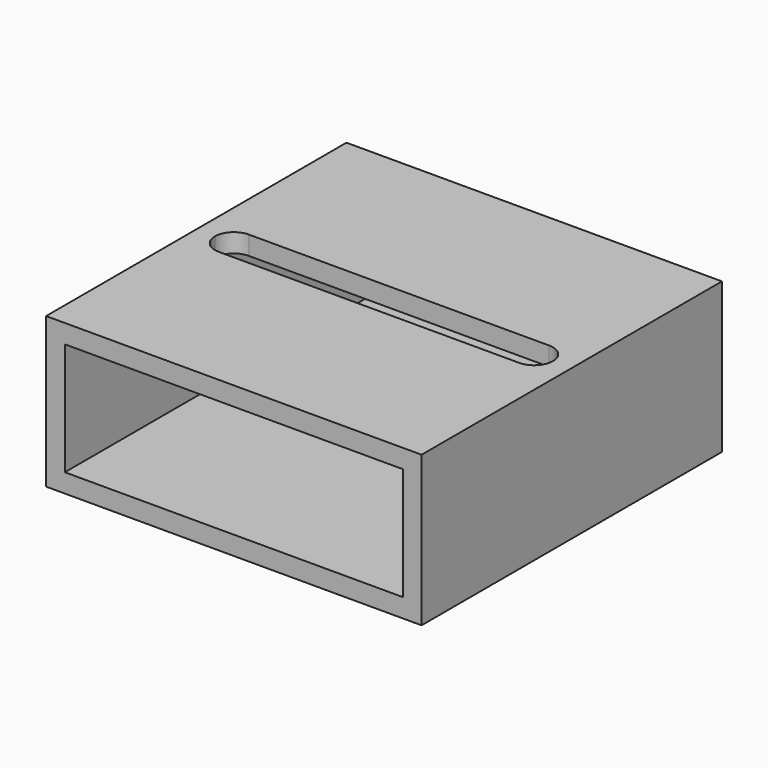
from build123d import *

# Parameters (mm, degrees)
F0_W     = 127
F0_H     = 127
F1_DEPTH = 50.8
F2_W     = 114.3
F2_H     = 38.1
F3_DEPTH = 127.001
F5_DEPTH = 50.801


with BuildPart() as f1:
    # F0 (on Top) → F1 (new body)
    with BuildSketch(Plane.XY):
        Rectangle(F0_W, F0_H)
    extrude(amount=F1_DEPTH)

    # F2 (on face) → F3 (cut, through all)
    with BuildSketch(Plane.XZ.offset(63.5)):
        with Locations((0, 25.4)):
            Rectangle(F2_W, F2_H)
    extrude(amount=-F3_DEPTH, mode=Mode.SUBTRACT)

    # F4 (on face) → F5 (cut, through all)
    with BuildSketch(Plane.XY.offset(50.8)):
        with BuildLine():
            ThreePointArc((50.8, -6.35), (44.45, 0), (50.8, 6.35))
            Line((50.8, 6.35), (-50.8, 6.35))
            ThreePointArc((-50.8, 6.35), (-46.309872, 4.490128), (-44.45, 0))
            ThreePointArc((-44.45, 0), (-46.309872, -4.490128), (-50.8, -6.35))
            Line((-50.8, -6.35), (50.8, -6.35))
        make_face()
        with BuildLine():
            ThreePointArc((50.8, -6.35), (55.290128, -4.490128), (57.15, 0))
            ThreePointArc((57.15, 0), (55.290128, 4.490128), (50.8, 6.35))
            ThreePointArc((50.8, 6.35), (44.45, 0), (50.8, -6.35))
        make_face()
        with BuildLine():
            ThreePointArc((-44.45, 0), (-46.309872, 4.490128), (-50.8, 6.35))
            ThreePointArc((-50.8, 6.35), (-55.290128, 4.490128), (-57.15, 0))
            ThreePointArc((-57.15, 0), (-55.290128, -4.490128), (-50.8, -6.35))
            ThreePointArc((-50.8, -6.35), (-46.309872, -4.490128), (-44.45, 0))
        make_face()
    extrude(amount=-F5_DEPTH, mode=Mode.SUBTRACT)


solid = f1.part
